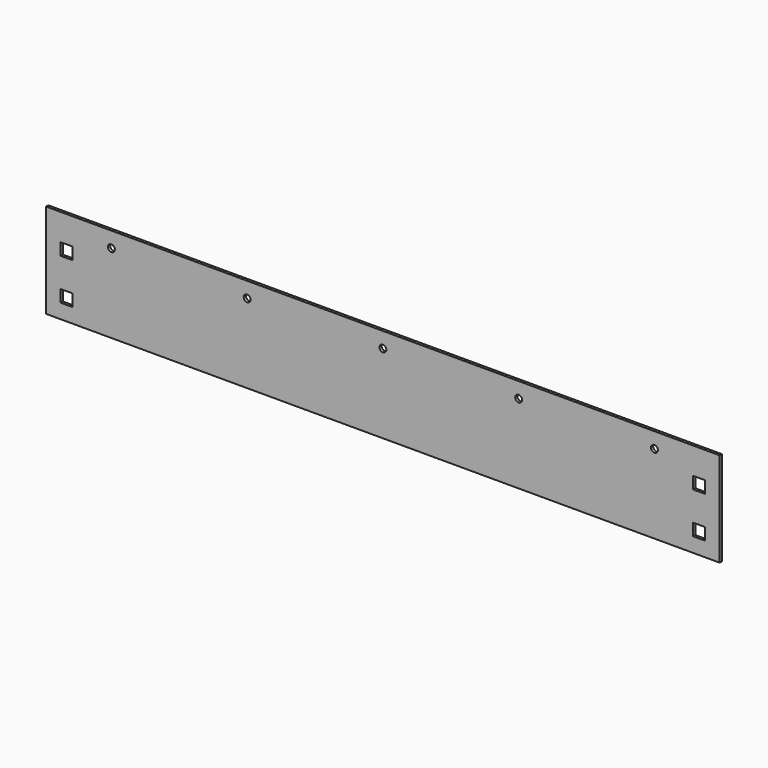
from build123d import *

# Parameters (mm, degrees)
F0_W     = 622.3
F0_H     = 87.3125
F0_W_2   = 11.1125
F0_H_2   = 11.1125
F0_R     = 3.175
F1_DEPTH = 1.27


with BuildPart() as f1:
    # F0 (on Front) → F1 (new body, symmetric)
    with BuildSketch(Plane.XZ):
        Rectangle(F0_W, F0_H)
        with Locations((-292.1, -24.60625)):
            Rectangle(F0_W_2, F0_H_2, mode=Mode.SUBTRACT)
        with Locations((292.1, -24.60625)):
            Rectangle(F0_W_2, F0_H_2, mode=Mode.SUBTRACT)
        with Locations((-292.1, 13.49375)):
            Rectangle(F0_W_2, F0_H_2, mode=Mode.SUBTRACT)
        with Locations((-250.825, 29.36875)):
            Circle(F0_R, mode=Mode.SUBTRACT)
        with Locations((-125.4125, 29.36875)):
            Circle(F0_R, mode=Mode.SUBTRACT)
        with Locations((292.1, 13.49375)):
            Rectangle(F0_W_2, F0_H_2, mode=Mode.SUBTRACT)
        with Locations((0, 29.36875)):
            Circle(F0_R, mode=Mode.SUBTRACT)
        with Locations((125.4125, 29.36875)):
            Circle(F0_R, mode=Mode.SUBTRACT)
        with Locations((250.825, 29.36875)):
            Circle(F0_R, mode=Mode.SUBTRACT)
    extrude(amount=F1_DEPTH, both=True)


solid = f1.part
